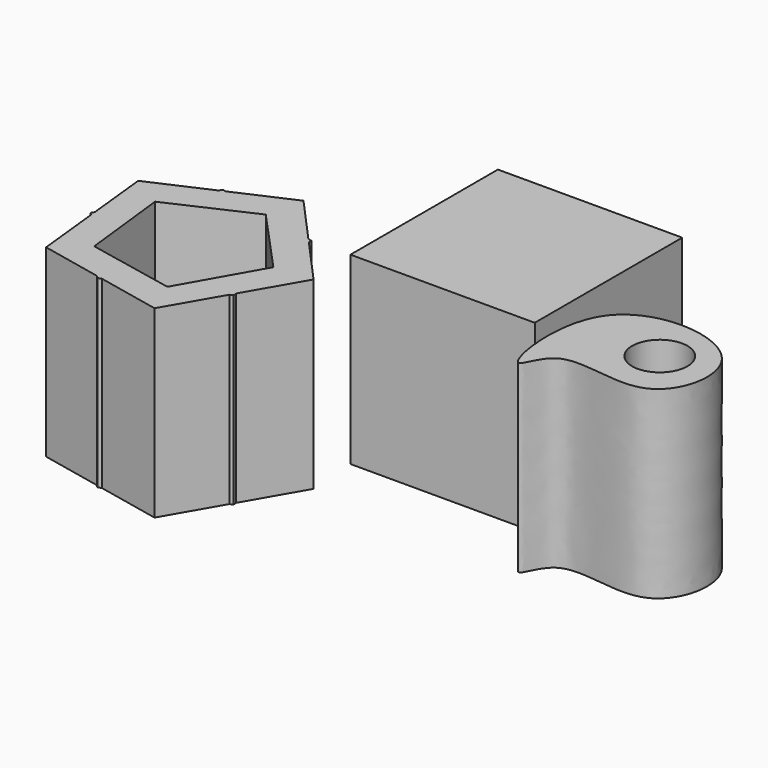
from build123d import *

# Parameters (mm, degrees)
F0_W     = 50
F0_H     = 50
F1_DEPTH = 50
F3_DEPTH = 50
F4_R     = 7.5
F5_DEPTH = 50


with BuildPart() as f1:
    # F0 (on Top) → F1 (new body)
    with BuildSketch(Plane.XY):
        Rectangle(F0_W, F0_H)
    extrude(amount=F1_DEPTH)


with BuildPart() as f3:
    # F2 (on Top) → F3 (new body)
    with BuildSketch(Plane.XY):
        with BuildLine():
            add(Edge.make_bspline(
                [(33.7365791202, -41.4424240589), (31.5524814258, -40.8217800872), (24.5054708689, -2.3488587323), (74.1751913533, -5.9759045351), (66.7450784353, -42.0413593704), (37.1163288643, -28.3775692794), (34.9179756672, -41.7781355278), (33.7365791202, -41.4424240589)],
                knots=[0, 0, 0, 0, 0.2288987477, 0.4695555389, 0.6661636185, 0.87618677, 1, 1, 1, 1], degree=3))
        make_face()
    extrude(amount=F3_DEPTH)

    # F4 (on face) → F5 (cut)
    with BuildSketch(Plane.XY.offset(50)):
        with Locations((55.2223548293, -20.3923042864)):
            Circle(F4_R)
    extrude(amount=-F5_DEPTH, mode=Mode.SUBTRACT)


with BuildPart() as f3b:
    # F2 (on Top) → F3, piece 2 (new body)
    with BuildSketch(Plane.XY):
        Polygon((-65.2016947436, -19.4671313755), (-81.2706886919, -26.6384186489), (-79.4766781793, -43.5643350799), align=None)
        Polygon((-64.6990569833, -18.6186425101), (-65.2016947436, -19.4671313755), (-63.7682640314, -18.8274184317), align=None)
        Polygon((-35.4769644734, -25.1731284249), (-36.4392489478, -24.9572889866), (-35.3878913336, -26.122880435), align=None)
        Polygon((-23.9877022811, -38.7617415513), (-35.3878913336, -26.122880435), (-32.7726145686, -54.008552489), align=None)
        Polygon((-32.6805278169, -54.9904374634), (-32.7726145686, -54.008552489), (-33.5562705409, -55.3686405649), align=None)
        Polygon((-33.5562705409, -55.3686405649), (-59.2689556938, -66.4730631384), (-42.0536896079, -70.1164875248), align=None)
        Polygon((-59.2689556938, -66.4730631384), (-60.8046393343, -66.1480523487), (-60.1743274257, -66.8640619874), align=None)
        Polygon((-60.8046393343, -66.1480523487), (-79.3112294658, -45.1252908706), (-77.4565221868, -62.6238619145), align=None)
        Polygon((-79.3112294658, -45.1252908706), (-79.4766781793, -43.5643350799), (-79.9628667204, -44.3850564744), align=None)
        Polygon((-63.7682640314, -18.8274184317), (-65.2016947436, -19.4671313755), (-79.4766781793, -43.5643350799), (-79.3112294658, -45.1252908706), (-60.8046393343, -66.1480523487), (-59.2689556938, -66.4730631384), (-33.5562705409, -55.3686405649), (-32.7726145686, -54.008552489), (-35.3878913336, -26.122880435), (-36.4392489478, -24.9572889866), align=None)
        Polygon((-46.0718111319, -60.7315766554), (-69.7726093861, -55.9023043065), (-72.5036478905, -31.8691784592), (-50.4907242566, -21.8451621785), (-34.1549507547, -39.6831052606), align=None, mode=Mode.SUBTRACT)
        Polygon((-48.2251406519, -11.8908172208), (-63.7682640314, -18.8274184317), (-36.4392489478, -24.9572889866), align=None)
    extrude(amount=F3_DEPTH)


solid = Compound([f1.part, f3.part, f3b.part])
